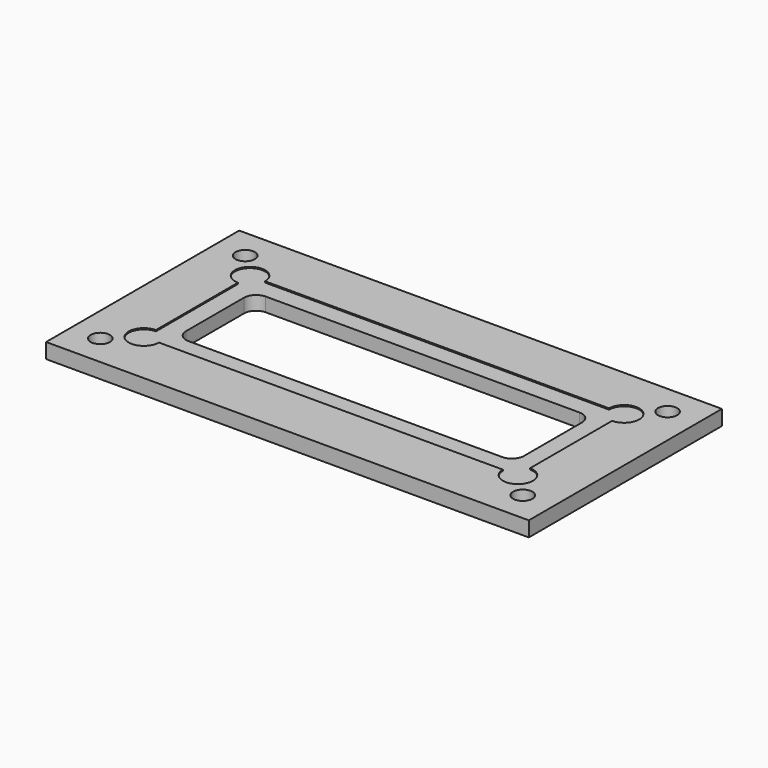
from build123d import *

# Parameters (mm, degrees)
F0_W          = 101.6
F0_H          = 50.8
F1_DEPTH      = 3.175
F3_DEPTH      = 0.254
F5_DEPTH      = 25.4
F5_DEPTH_BACK = 25.4
F6_R          = 2.032
F7_DEPTH      = 25.4
F7_DEPTH_BACK = 25.4


with BuildPart() as f1:
    # F0 (on Top) → F1 (new body)
    with BuildSketch(Plane.XY):
        with Locations((50.9793485571, 25.1952067787)):
            Rectangle(F0_W, F0_H)
    extrude(amount=F1_DEPTH)

    # F2 (on face) → F3 (cut)
    with BuildSketch(Plane.XY.offset(3.175)):
        with BuildLine():
            Line((11.6093485571, 35.9902067787), (11.6093485571, 39.1652067787))
            Line((11.6093485571, 39.1652067787), (14.7843485571, 39.1652067787))
            ThreePointArc((14.7843485571, 39.1652067787), (9.3642845268, 41.4102708089), (11.6093485571, 35.9902067787))
        make_face()
        with BuildLine():
            Line((14.7843485571, 39.1652067787), (11.6093485571, 39.1652067787))
            Line((11.6093485571, 39.1652067787), (11.6093485571, 35.9902067787))
            ThreePointArc((11.6093485571, 35.9902067787), (13.8544125874, 36.9201427484), (14.7843485571, 39.1652067787))
        make_face()
        with BuildLine():
            ThreePointArc((14.7843485571, 11.2252067787), (13.8544125874, 13.4702708089), (11.6093485571, 14.4002067787))
            Line((11.6093485571, 14.4002067787), (11.6093485571, 11.2252067787))
            Line((11.6093485571, 11.2252067787), (14.7843485571, 11.2252067787))
        make_face()
        with BuildLine():
            Line((11.6093485571, 11.2252067787), (11.6093485571, 14.4002067787))
            ThreePointArc((11.6093485571, 14.4002067787), (9.3642845268, 8.9801427484), (14.7843485571, 11.2252067787))
            Line((14.7843485571, 11.2252067787), (11.6093485571, 11.2252067787))
        make_face()
        with BuildLine():
            Line((90.3493485571, 11.2252067787), (90.3493485571, 14.4002067787))
            ThreePointArc((90.3493485571, 14.4002067787), (88.1042845268, 13.4702708089), (87.1743485571, 11.2252067787))
            Line((87.1743485571, 11.2252067787), (90.3493485571, 11.2252067787))
        make_face()
        with BuildLine():
            ThreePointArc((93.5243485571, 11.2252067787), (92.5944125874, 13.4702708089), (90.3493485571, 14.4002067787))
            Line((90.3493485571, 14.4002067787), (90.3493485571, 11.2252067787))
            Line((90.3493485571, 11.2252067787), (87.1743485571, 11.2252067787))
            ThreePointArc((87.1743485571, 11.2252067787), (90.3493485571, 8.0502067787), (93.5243485571, 11.2252067787))
        make_face()
        with BuildLine():
            ThreePointArc((93.5243485571, 39.1652067787), (90.3493485571, 42.3402067787), (87.1743485571, 39.1652067787))
            Line((87.1743485571, 39.1652067787), (90.3493485571, 39.1652067787))
            Line((90.3493485571, 39.1652067787), (90.3493485571, 35.9902067787))
            ThreePointArc((90.3493485571, 35.9902067787), (92.5944125874, 36.9201427484), (93.5243485571, 39.1652067787))
        make_face()
        with BuildLine():
            Line((90.3493485571, 39.1652067787), (87.1743485571, 39.1652067787))
            ThreePointArc((87.1743485571, 39.1652067787), (88.1042845268, 36.9201427484), (90.3493485571, 35.9902067787))
            Line((90.3493485571, 35.9902067787), (90.3493485571, 39.1652067787))
        make_face()
        with BuildLine():
            Line((87.1743485571, 39.1652067787), (14.7843485571, 39.1652067787))
            ThreePointArc((14.7843485571, 39.1652067787), (13.8544125874, 36.9201427484), (11.6093485571, 35.9902067787))
            Line((11.6093485571, 35.9902067787), (11.6093485571, 14.4002067787))
            ThreePointArc((11.6093485571, 14.4002067787), (13.8544125874, 13.4702708089), (14.7843485571, 11.2252067787))
            Line((14.7843485571, 11.2252067787), (87.1743485571, 11.2252067787))
            ThreePointArc((87.1743485571, 11.2252067787), (88.1042845268, 13.4702708089), (90.3493485571, 14.4002067787))
            Line((90.3493485571, 14.4002067787), (90.3493485571, 35.9902067787))
            ThreePointArc((90.3493485571, 35.9902067787), (88.1042845268, 36.9201427484), (87.1743485571, 39.1652067787))
        make_face()
    extrude(amount=-F3_DEPTH, mode=Mode.SUBTRACT)

    # F4 (on face) → F5 (cut, two sides)
    with BuildSketch(Plane.XY.offset(2.921)) as f5_sk:
        with BuildLine():
            ThreePointArc((15.4193485571, 17.5752067787), (16.1632973329, 15.7791555545), (17.9593485571, 15.0352067787))
            Line((17.9593485571, 15.0352067787), (83.9993485571, 15.0352067787))
            ThreePointArc((83.9993485571, 15.0352067787), (85.7953997813, 15.7791555545), (86.5393485571, 17.5752067787))
            Line((86.5393485571, 17.5752067787), (86.5393485571, 32.8152067787))
            ThreePointArc((86.5393485571, 32.8152067787), (85.7953997813, 34.6112580029), (83.9993485571, 35.3552067787))
            Line((83.9993485571, 35.3552067787), (17.9593485571, 35.3552067787))
            ThreePointArc((17.9593485571, 35.3552067787), (16.1632973329, 34.6112580029), (15.4193485571, 32.8152067787))
            Line((15.4193485571, 32.8152067787), (15.4193485571, 17.5752067787))
        make_face()
    extrude(amount=-F5_DEPTH, mode=Mode.SUBTRACT)
    extrude(f5_sk.sketch, amount=F5_DEPTH_BACK, mode=Mode.SUBTRACT)

    # F6 (on face) → F7 (cut, two sides)
    with BuildSketch(Plane.XY.offset(3.175)) as f7_sk:
        with Locations((6.5293485571, 44.2452067787)):
            Circle(F6_R)
        with Locations((95.4293485571, 44.2452067787)):
            Circle(F6_R)
        with Locations((95.4293485571, 6.1452067787)):
            Circle(F6_R)
        with Locations((6.35, 6.35)):
            Circle(F6_R)
    extrude(amount=-F7_DEPTH, mode=Mode.SUBTRACT)
    extrude(f7_sk.sketch, amount=F7_DEPTH_BACK, mode=Mode.SUBTRACT)


solid = f1.part
